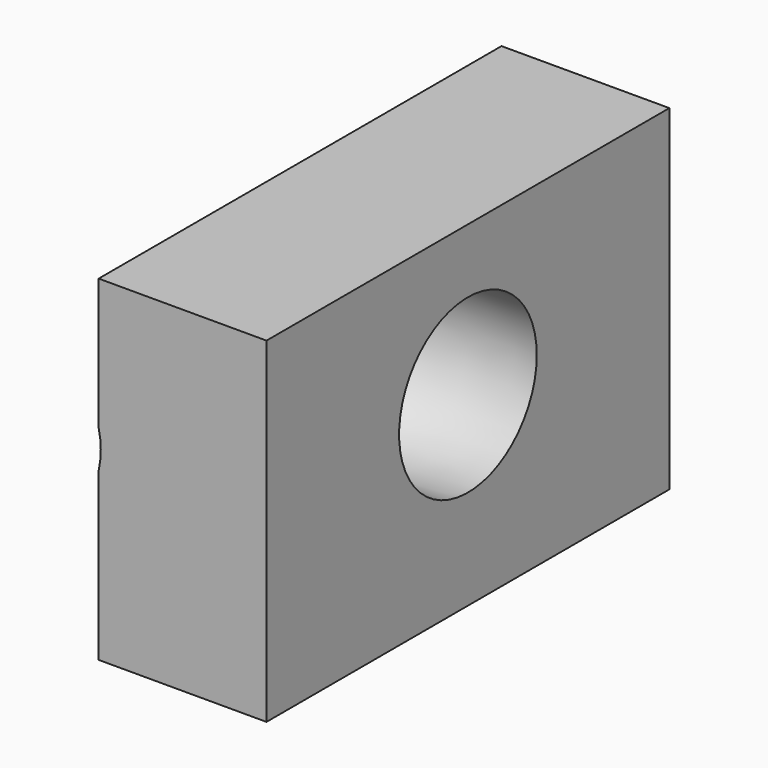
from build123d import *

# Parameters (mm, degrees)
F0_W     = 50.8
F0_H     = 101.6
F1_DEPTH = 76.2
F2_R     = 26.0358283423


with BuildPart() as f1:
    # F0 (on Front) → F1 (new body, symmetric)
    with BuildSketch(Plane.XZ):
        with Locations((49.0073505789, 93.797959613)):
            Rectangle(F0_W, F0_H)
    extrude(amount=F1_DEPTH, both=True)

    # F2 (on face) → F3 (revolve, cut)
    with BuildSketch(Plane.YZ.offset(74.4073505789)):
        with Locations((0, 99.1635322571)):
            Circle(F2_R)
    revolve(axis=Axis((74.4073505789, -76.2, 93.797959613), (0, 0, 1)), mode=Mode.SUBTRACT)


solid = f1.part
